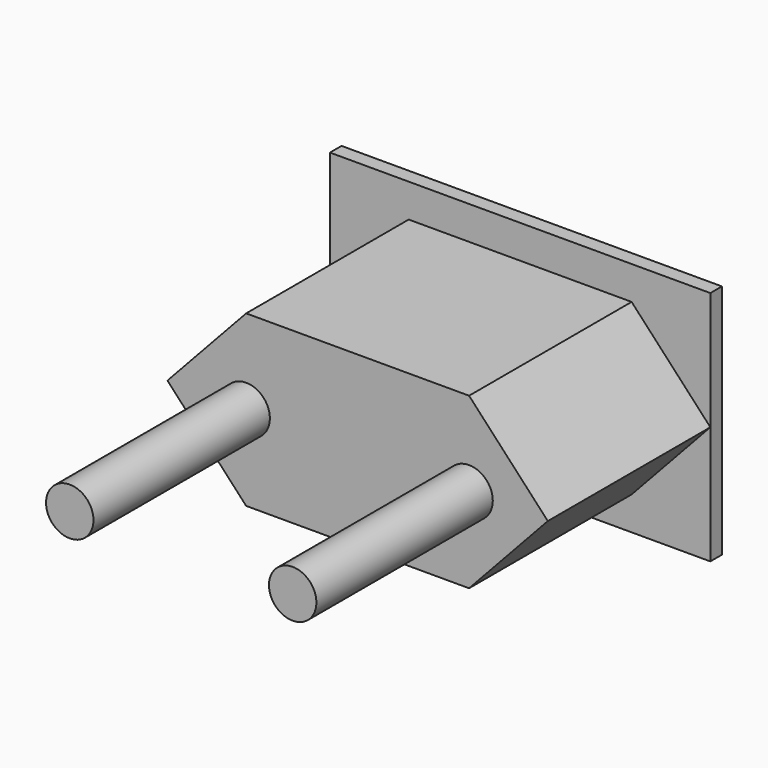
from build123d import *

# Parameters (mm, degrees)
F0_W          = 33.12
F0_H          = 20.57
F1_DEPTH      = 0.63
F3_DEPTH      = 17.69
F4_W          = 19.23
F4_H          = 12.16
F5_DEPTH      = 15.21
F6_R          = 2.065
F7_DEPTH      = 19.2
F7_DEPTH_BACK = 16.95


with BuildPart() as f1:
    # F0 (on Front) → F1 (new body, symmetric)
    with BuildSketch(Plane.XZ):
        Rectangle(F0_W, F0_H)
    extrude(amount=F1_DEPTH, both=True)

    # F2 (on face) → F3 (join)
    with BuildSketch(Plane.XZ.offset(0.63)):
        Polygon((16.56, 0), (9.705, 7.38), (-9.705, 7.38), (-16.56, 0), (-9.705, -7.38), (9.705, -7.38), align=None)
    extrude(amount=F3_DEPTH)

    # F4 (on face) → F5 (cut)
    with BuildSketch(Plane(origin=(0, 0.63, 0), x_dir=(-1, 0, 0), z_dir=(0, 1, 0))):
        Rectangle(F4_W, F4_H)
        Polygon((15.56, 0), (9.615, 6.08), (9.615, -6.08), align=None)
        Polygon((-9.615, -6.08), (-9.615, 6.08), (-15.56, 0), align=None)
    extrude(amount=-F5_DEPTH, mode=Mode.SUBTRACT)

    # F6 (on face) → F7 (join, two sides)
    with BuildSketch(Plane.XZ.offset(18.32)) as f7_sk:
        with Locations((-9.705, 0)):
            Circle(F6_R)
        with Locations((9.705, 0)):
            Circle(F6_R)
    extrude(amount=F7_DEPTH)
    extrude(f7_sk.sketch, amount=-F7_DEPTH_BACK)


solid = f1.part
